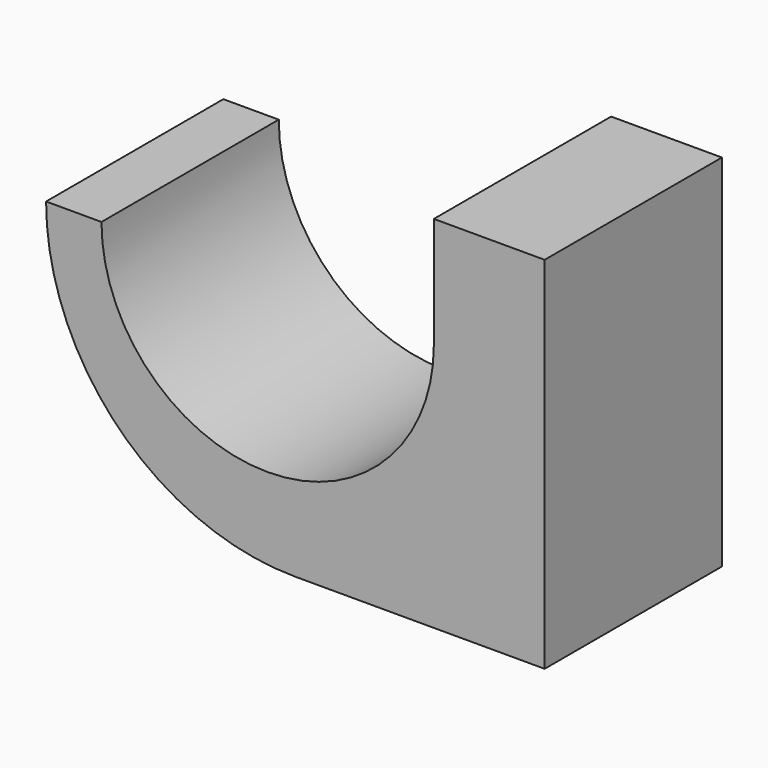
from build123d import *

# Parameters (mm, degrees)
F1_DEPTH = 25.4


with BuildPart() as f1:
    # F0 (on Front) → F1 (new body)
    with BuildSketch(Plane.XZ):
        with BuildLine():
            ThreePointArc((28.575, -28.575), (48.780576, -20.205576), (57.15, 0))
            Line((57.15, 0), (57.15, 12.7))
            Line((57.15, 12.7), (44.45, 12.7))
            Line((44.45, 12.7), (44.45, 0))
            ThreePointArc((44.45, 0), (25.4, -19.05), (6.35, 0))
            Line((6.35, 0), (0, 0))
            ThreePointArc((0, 0), (8.369424, -20.205576), (28.575, -28.575))
        make_face()
        with BuildLine():
            Line((57.15, -28.575), (57.15, 0))
            ThreePointArc((57.15, 0), (48.780576, -20.205576), (28.575, -28.575))
            Line((28.575, -28.575), (57.15, -28.575))
        make_face()
    extrude(amount=F1_DEPTH)


solid = f1.part
